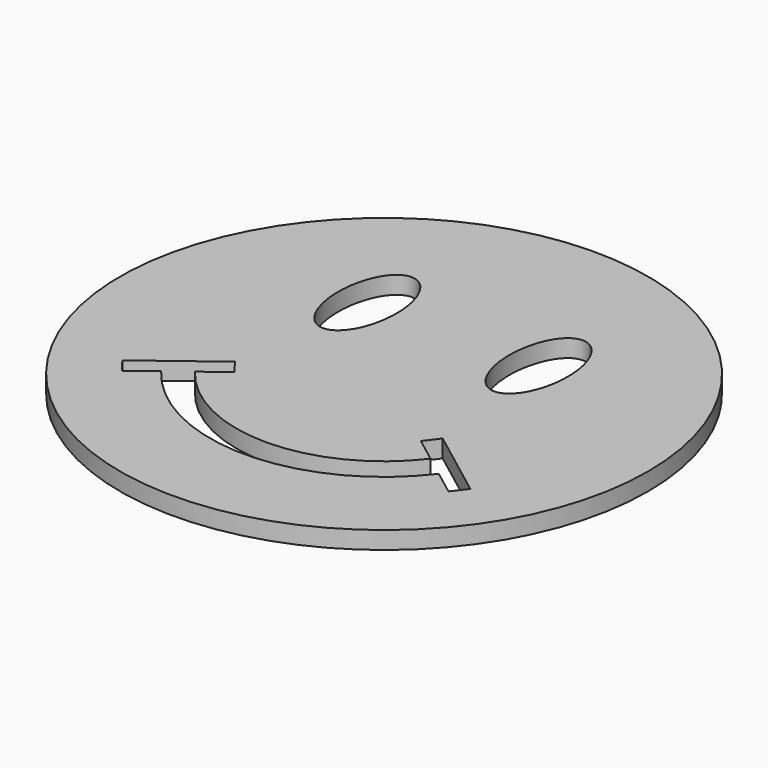
from build123d import *

# Parameters (mm, degrees)
F0_R     = 15
F1_DEPTH = 1


with BuildPart() as f1:
    # F0 (on Top) → F1 (new body)
    with BuildSketch(Plane.XY):
        Circle(F0_R)
        with BuildLine():
            Line((-5.298381, -4.011998), (-6.693536, -5.068426))
            ThreePointArc((-6.693536, -5.068426), (0, -8.395973), (6.693536, -5.068426))
            Line((6.693536, -5.068426), (5.298381, -4.011998))
            Line((5.298381, -4.011998), (5.902054, -3.214766))
            Line((5.902054, -3.214766), (9.888212, -6.233134))
            Line((9.888212, -6.233134), (9.284539, -7.030365))
            Line((9.284539, -7.030365), (7.889383, -5.973937))
            ThreePointArc((7.889383, -5.973937), (0, -9.895973), (-7.889383, -5.973937))
            Line((-7.889383, -5.973937), (-9.284539, -7.030365))
            Line((-9.284539, -7.030365), (-9.888212, -6.233134))
            Line((-9.888212, -6.233134), (-5.902054, -3.214766))
            Line((-5.902054, -3.214766), (-5.298381, -4.011998))
        make_face(mode=Mode.SUBTRACT)
        with BuildLine():
            add(Edge.make_bspline(
                [(-4.86562, 1.747414), (-1.986049, 1.747414), (-3.425834, 6.463213), (-4.86562, 11.179012), (-6.305405, 6.463213), (-7.745191, 1.747414), (-4.86562, 1.747414)],
                knots=[0, 0, 0, 2.094395, 2.094395, 4.18879, 4.18879, 6.283185, 6.283185, 6.283185], degree=2, weights=[1, 0.5, 1, 0.5, 1, 0.5, 1]))
        make_face(mode=Mode.SUBTRACT)
        with BuildLine():
            add(Edge.make_bspline(
                [(4.86562, 1.747414), (7.745191, 1.747414), (6.305405, 6.463213), (4.86562, 11.179012), (3.425834, 6.463213), (1.986049, 1.747414), (4.86562, 1.747414)],
                knots=[0, 0, 0, 2.094395, 2.094395, 4.18879, 4.18879, 6.283185, 6.283185, 6.283185], degree=2, weights=[1, 0.5, 1, 0.5, 1, 0.5, 1]))
        make_face(mode=Mode.SUBTRACT)
    extrude(amount=F1_DEPTH)


solid = f1.part
